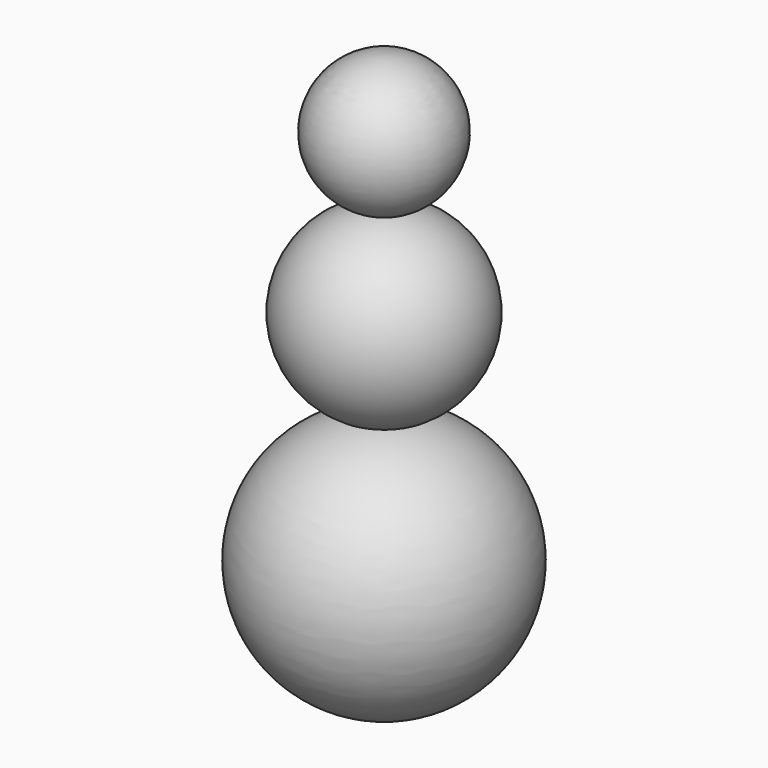
from build123d import *


with BuildPart() as f1:
    # F0 (on Front) → F1 (revolve)
    with BuildSketch(Plane.XZ):
        with BuildLine():
            ThreePointArc((0, 64.351149), (-16.487338, 47.863811), (0, 31.376474))
            Line((0, 31.376474), (0, 64.351149))
        make_face()
        with BuildLine():
            ThreePointArc((0, 31.376474), (-22.591062, 8.785412), (0, -13.80565))
            Line((0, -13.80565), (0, 31.376474))
        make_face()
        with BuildLine():
            Line((0, -13.80565), (0, -75.931057))
            ThreePointArc((0, -75.931057), (31.062704, -44.868354), (0, -13.80565))
        make_face()
    revolve(axis=Axis((0, 0, -2.510116), (0, 0, -1)))


solid = f1.part
